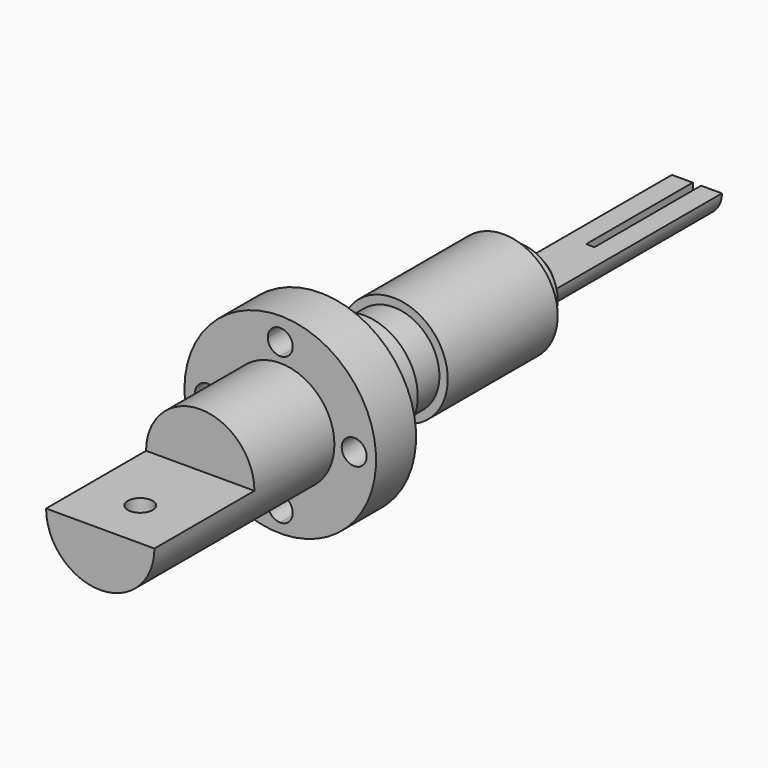
from build123d import *

# Parameters (mm, degrees)
F0_R      = 13
F1_DEPTH  = 54
F3_DEPTH  = 30
F4_R      = 23
F5_DEPTH  = 12
F7_DEPTH  = 25
F8_R      = 13
F9_DEPTH  = 13
F10_R     = 11
F11_DEPTH = 9
F12_R     = 13
F13_DEPTH = 8
F14_R     = 13
F15_DEPTH = 25
F17_DEPTH = 14
F18_R     = 9
F19_DEPTH = 5
F20_R     = 6
F21_DEPTH = 53
F23_DEPTH = 50
F25_DEPTH = 32


with BuildPart() as f1:
    # F0 (on Front) → F1 (new body)
    with BuildSketch(Plane.XZ):
        Circle(F0_R)
    extrude(amount=F1_DEPTH)

    # F2 (on face) → F3 (cut)
    with BuildSketch(Plane.XZ.offset(54)):
        with BuildLine():
            Line((-13, 0), (0, 0))
            Line((0, 0), (13, 0))
            ThreePointArc((13, 0), (0, 13), (-13, 0))
        make_face()
    extrude(amount=-F3_DEPTH, mode=Mode.SUBTRACT)

    # F4 (on face) → F5 (join)
    with BuildSketch(Plane(origin=(0, 0, 0), x_dir=(-1, 0, 0), z_dir=(0, 1, 0))):
        Circle(F4_R)
    extrude(amount=F5_DEPTH)

    # F6 (on face) → F7 (cut)
    with BuildSketch(Plane(origin=(0, 12, 0), x_dir=(-1, 0, 0), z_dir=(0, 1, 0))):
        with BuildLine():
            ThreePointArc((0, 20.4449764911), (-3, 17.4449764911), (0, 14.4449764911))
            Line((0, 14.4449764911), (0, 20.4449764911))
        make_face()
        with BuildLine():
            Line((0, 20.4449764911), (0, 14.4449764911))
            ThreePointArc((0, 14.4449764911), (2.1213203436, 15.3236561476), (3, 17.4449764911))
            ThreePointArc((3, 17.4449764911), (2.1213203436, 19.5662968347), (0, 20.4449764911))
        make_face()
        with BuildLine():
            ThreePointArc((3, -17.7103122696), (2.1213203436, -15.5889919261), (0, -14.7103122696))
            Line((0, -14.7103122696), (0, -20.7103122696))
            ThreePointArc((0, -20.7103122696), (2.1213203436, -19.8316326132), (3, -17.7103122696))
        make_face()
        with BuildLine():
            Line((0, -20.7103122696), (0, -14.7103122696))
            ThreePointArc((0, -14.7103122696), (-3, -17.7103122696), (0, -20.7103122696))
        make_face()
        with BuildLine():
            ThreePointArc((-20.7528914064, 0), (-17.7528914064, -3), (-14.7528914064, 0))
            Line((-14.7528914064, 0), (-20.7528914064, 0))
        make_face()
        with BuildLine():
            Line((-20.7528914064, 0), (-14.7528914064, 0))
            ThreePointArc((-14.7528914064, 0), (-17.7528914064, 3), (-20.7528914064, 0))
        make_face()
        with BuildLine():
            ThreePointArc((20.4494218081, 0), (17.4494218081, 3), (14.4494218081, 0))
            Line((14.4494218081, 0), (20.4494218081, 0))
        make_face()
        with BuildLine():
            Line((20.4494218081, 0), (14.4494218081, 0))
            ThreePointArc((14.4494218081, 0), (17.4494218081, -3), (20.4494218081, 0))
        make_face()
    extrude(amount=-F7_DEPTH, mode=Mode.SUBTRACT)

    # F8 (on face) → F9 (join)
    with BuildSketch(Plane(origin=(0, 12, 0), x_dir=(-1, 0, 0), z_dir=(0, 1, 0))):
        Circle(F8_R)
    extrude(amount=F9_DEPTH)

    # F10 (on face) → F11 (join)
    with BuildSketch(Plane(origin=(0, 25, 0), x_dir=(-1, 0, 0), z_dir=(0, 1, 0))):
        Circle(F10_R)
    extrude(amount=F11_DEPTH)

    # F12 (on face) → F13 (join)
    with BuildSketch(Plane(origin=(0, 34, 0), x_dir=(-1, 0, 0), z_dir=(0, 1, 0))):
        Circle(F12_R)
    extrude(amount=F13_DEPTH)

    # F14 (on face) → F15 (join)
    with BuildSketch(Plane(origin=(0, 42, 0), x_dir=(-1, 0, 0), z_dir=(0, 1, 0))):
        Circle(F14_R)
    extrude(amount=F15_DEPTH)

    # F16 (on face) → F17 (cut)
    with BuildSketch(Plane.XY):
        with BuildLine():
            ThreePointArc((0, -45), (2.1213203436, -44.1213203436), (3, -42))
            ThreePointArc((3, -42), (-2.1213203436, -39.8786796564), (0, -45))
        make_face()
    extrude(amount=-F17_DEPTH, mode=Mode.SUBTRACT)

    # F18 (on face) → F19 (join)
    with BuildSketch(Plane(origin=(0, 67, 0), x_dir=(-1, 0, 0), z_dir=(0, 1, 0))):
        Circle(F18_R)
    extrude(amount=F19_DEPTH)

    # F20 (on face) → F21 (join)
    with BuildSketch(Plane(origin=(0, 72, 0), x_dir=(-1, 0, 0), z_dir=(0, 1, 0))):
        Circle(F20_R)
    extrude(amount=F21_DEPTH)

    # F22 (on face) → F23 (cut)
    with BuildSketch(Plane(origin=(0, 125, 0), x_dir=(-1, 0, 0), z_dir=(0, 1, 0))):
        with BuildLine():
            Line((0, 0), (6, 0))
            ThreePointArc((6, 0), (0, 6), (-6, 0))
            Line((-6, 0), (0, 0))
        make_face()
    extrude(amount=-F23_DEPTH, mode=Mode.SUBTRACT)

    # F24 (on face) → F25 (cut)
    with BuildSketch(Plane(origin=(0, 125, 0), x_dir=(-1, 0, 0), z_dir=(0, 1, 0))):
        Polygon((1, 0), (0, 0), (-1, 0), (-1, -7.1843406186), (1, -7.1843406186), align=None)
    extrude(amount=-F25_DEPTH, mode=Mode.SUBTRACT)


solid = f1.part
